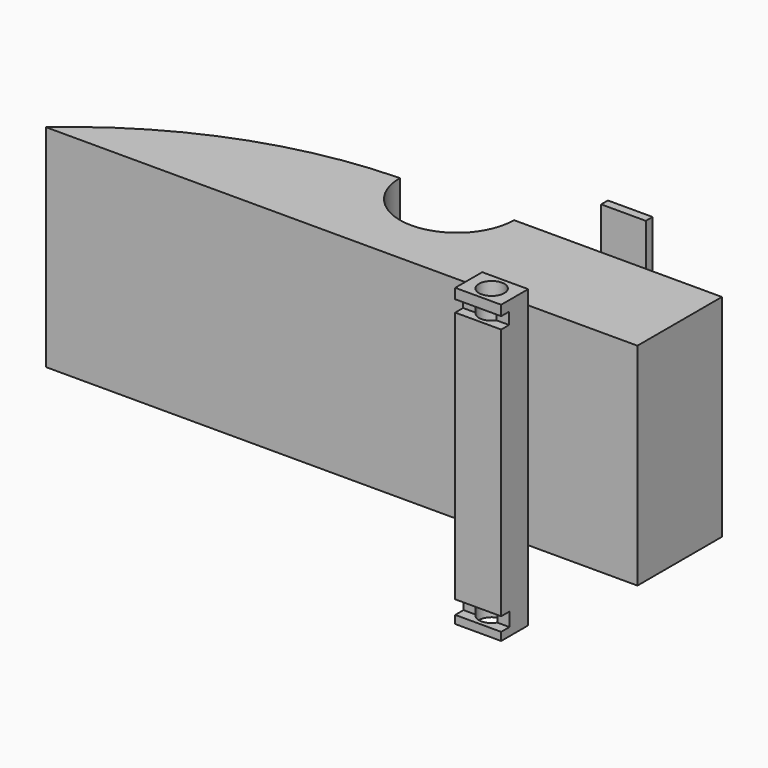
from build123d import *

# Parameters (mm, degrees)
F1_DEPTH  = 50
F3_DEPTH  = 50
F5_DEPTH  = 2
F6_W      = 2
F6_H      = 2.1376970706
F7_DEPTH  = 35
F8_W      = 10.8773745596
F8_H      = 70.0813960284
F9_DEPTH  = 8
F10_R     = 3
F11_DEPTH = 70.0823960284
F13_W     = 2.3453889781
F13_H     = 2.7803070843
F14_DEPTH = 25
F15_W     = 2.4533367151
F15_H     = 3.2436903566
F16_DEPTH = 25


with BuildPart() as f1:
    # F0 (on Top) → F1 (new body)
    with BuildSketch(Plane.XY):
        with BuildLine():
            ThreePointArc((-5.4621001933, -9.2645695501), (-40.8174392526, -15.7231348808), (-71.6058829699, -34.2645695501))
            Line((-71.6058829699, -34.2645695501), (68.3941170301, -34.2645695501))
            Line((68.3941170301, -34.2645695501), (68.3941170301, -9.2645695501))
            Line((68.3941170301, -9.2645695501), (-5.4621001933, -9.2645695501))
        make_face()
    extrude(amount=F1_DEPTH)

    # F2 (on face) → F3 (cut)
    with BuildSketch(Plane.XY.offset(50)):
        with BuildLine():
            ThreePointArc((-7.829049518, -9.2925857202), (5.6849295039, -22.7645622825), (19.1709214114, -9.2645695501))
            Line((19.1709214114, -9.2645695501), (-5.4621001933, -9.2645695501))
            ThreePointArc((-5.4621001933, -9.2645695501), (-6.6456577554, -9.2715738379), (-7.829049518, -9.2925857202))
        make_face()
    extrude(amount=-F3_DEPTH, mode=Mode.SUBTRACT)


with BuildPart() as f5:
    # F4 (on face) → F5 (new body)
    with BuildSketch(Plane(origin=(0, -9.2645695501, 0), x_dir=(-1, 0, 0), z_dir=(0, 1, 0))):
        Polygon((-50.3724478185, 60), (-50.3724478185, 50), (-50.3724478185, 0), (-50.3724478185, -10), (-39.8058518767, -10), (-39.8058518767, 0), (-39.8058518767, 50), (-39.8058518767, 60), align=None)
    extrude(amount=F5_DEPTH)


with BuildPart() as f7:
    # F6 (on face) → F7 (new body)
    with BuildSketch(Plane.XZ.offset(9.2645695501)):
        with Locations((44.7074491531, 54.6884573996)):
            Rectangle(F6_W, F6_H)
    extrude(amount=F7_DEPTH)


with BuildPart() as f9:
    # F8 (on face) → F9 (new body)
    with BuildSketch(Plane.XZ.offset(44.2645695501)):
        with Locations((45.0891498476, 24.9999994412)):
            Rectangle(F8_W, F8_H)
    extrude(amount=F9_DEPTH)

    # F10 (on face) → F11 (cut, through all)
    with BuildSketch(Plane(origin=(0, 0, -10.040698573), x_dir=(1, 0, 0), z_dir=(0, 0, -1))):
        with Locations((45.0891498476, 48.2645695501)):
            Circle(F10_R)
    extrude(amount=-F11_DEPTH, mode=Mode.SUBTRACT)

    # F13 (on face) → F14 (cut)
    with BuildSketch(Plane.YZ.offset(50.5278371274)):
        with Locations((-51.0918750611, 56.2631879002)):
            Rectangle(F13_W, F13_H)
    extrude(amount=-F14_DEPTH, mode=Mode.SUBTRACT)

    # F15 (on face) → F16 (cut)
    with BuildSketch(Plane.YZ.offset(50.5278371274)):
        with Locations((-51.0379011926, -6.5101496875)):
            Rectangle(F15_W, F15_H)
    extrude(amount=-F16_DEPTH, mode=Mode.SUBTRACT)


solid = Compound([f1.part, f5.part, f9.part])
